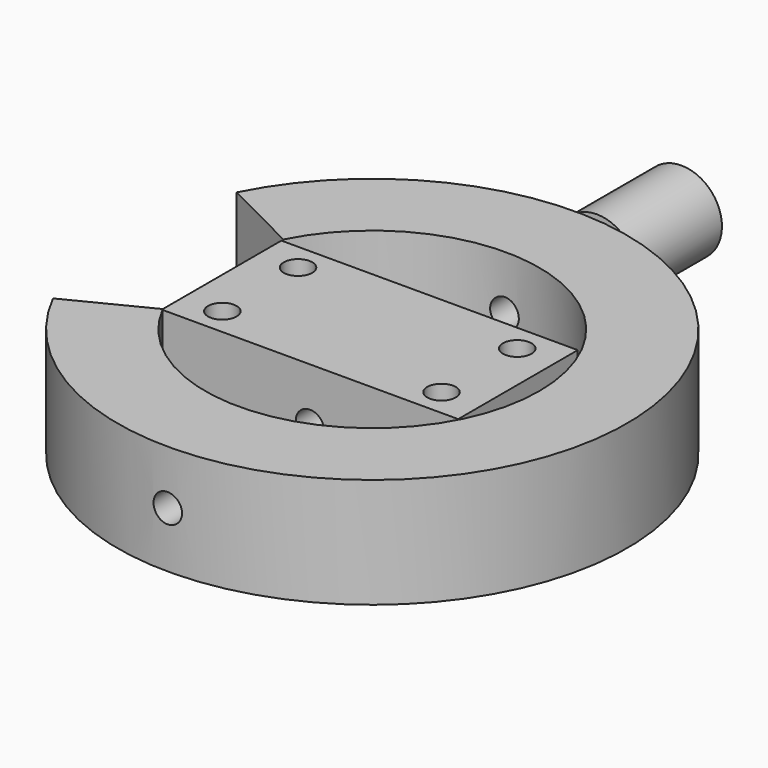
from build123d import *

# Parameters (mm, degrees)
F0_W     = 68.4977695346
F0_H     = 34.5366895199
F1_DEPTH = 25.4
F3_D     = 6.6
F5_D     = 6.6
F7_DEPTH = 25.4
F8_W     = 24.4304622273
F8_H     = 9.358138208
F11_D    = 6.6
F11_2_D  = 6.6


with BuildPart() as f1:
    # F0 (on Top) → F1 (new body)
    with BuildSketch(Plane.XY):
        Rectangle(F0_W, F0_H)
    extrude(amount=F1_DEPTH)

    # F3 (through all)
    with Locations(Plane.XY.offset(25.4)):
        with Locations((-25.3269076347, 10.9366187826), (25.3269076347, 10.9366187826), (25.3269076347, -10.9366187826), (-25.3269076347, -10.9366187826)):
            Hole(F3_D / 2)

    # F5 (through all)
    with Locations(Plane.YZ.offset(34.2488847673)):
        with Locations((0, 12.0878415182)):
            Hole(F5_D / 2)

    # F6 (on Top) → F7 (join)
    with BuildSketch(Plane.XY):
        with BuildLine():
            ThreePointArc((-34.2488847673, 17.8439561278), (38.8465475208, 0.4317080602), (-34.2488847673, -16.9805400074))
            Line((-34.2488847673, -16.9805400074), (-52.326727178, -26.1114104342))
            ThreePointArc((-52.326727178, -26.1114104342), (59.0994777034, 0.4317080602), (-52.326727178, 26.9748265546))
            Line((-52.326727178, 26.9748265546), (-34.2488847673, 17.8439561278))
        make_face()
    extrude(amount=F7_DEPTH)

    # F11 (through all)
    with Locations(Plane(origin=(0, 90.0401915764, 0), x_dir=(-1, 0, 0), z_dir=(0, 1, 0))):
        with Locations((0, 12.8872906789)):
            Hole(F11_D / 2)


with BuildPart() as f9:
    # F8 (on Right) → F9 (revolve)
    with BuildSketch(Plane.YZ):
        with Locations((77.8249604627, 17.5663597829)):
            Rectangle(F8_W, F8_H)
    revolve(axis=Axis((0, 77.8249604627, 12.8872906789), (0, -1, 0)))

    # F11#2 (through all)
    with Locations(Plane(origin=(0, 90.0401915764, 0), x_dir=(-1, 0, 0), z_dir=(0, 1, 0))):
        with Locations((0, 12.8872906789)):
            Hole(F11_2_D / 2)


solid = Compound([f1.part, f9.part])
